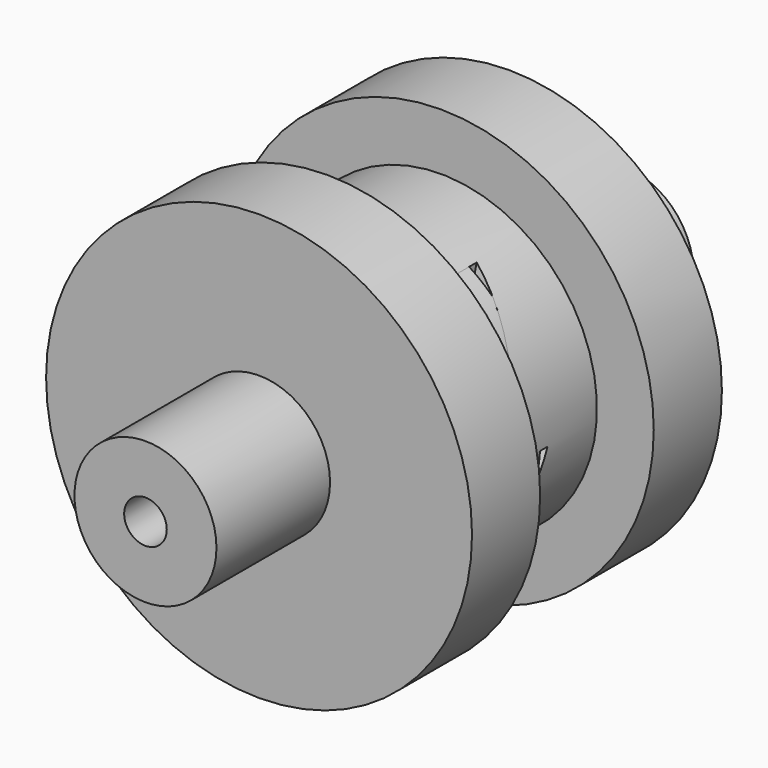
from build123d import *

# Parameters (mm, degrees)
F0_R      = 7.5
F1_DEPTH  = 3
F2_R      = 2.5
F3_DEPTH  = 5
F4_R      = 0.75
F5_DEPTH  = 8.001
F6_R      = 5.5
F6_R_2    = 4
F7_DEPTH  = 6
F10_DEPTH = 10
F11_COUNT = 6
F13_R     = 5.5
F13_R_2   = 4
F14_DEPTH = 5
F15_R     = 7.5
F16_DEPTH = 3
F17_R     = 2.5
F18_DEPTH = 5
F19_R     = 0.75
F20_DEPTH = 25
F22_R     = 7.5
F23_DEPTH = 2.5


with BuildPart() as f1:
    # F0 (on Front) → F1 (new body)
    with BuildSketch(Plane.XZ):
        Circle(F0_R)
    extrude(amount=F1_DEPTH)

    # F2 (on face) → F3 (join)
    with BuildSketch(Plane.XZ.offset(3)):
        Circle(F2_R)
    extrude(amount=F3_DEPTH)

    # F4 (on face) → F5 (cut, through all)
    with BuildSketch(Plane.XZ.offset(8)):
        Circle(F4_R)
    extrude(amount=-F5_DEPTH, mode=Mode.SUBTRACT)

    # F6 (on face) → F7 (join)
    with BuildSketch(Plane.XZ.offset(3)):
        Circle(F6_R)
        Circle(F6_R_2, mode=Mode.SUBTRACT)
    extrude(amount=-F7_DEPTH)


with BuildPart() as f10:
    # F9 (on offset) → F10 (new body)
    with BuildSketch(Plane.XY.offset(10)):
        Polygon((-3, 3), (3, 1), (3, 3), align=None)
    extrude(amount=-F10_DEPTH)


with BuildPart() as f11_1:
    # F11: instance of F10
    add(f10.part.rotate(Axis((0, 3, 0), (0, -1, 0)), 1 * 360 / F11_COUNT))


with BuildPart() as f11_2:
    # F11: instance of F10
    add(f10.part.rotate(Axis((0, 3, 0), (0, -1, 0)), 2 * 360 / F11_COUNT))


with BuildPart() as f11_3:
    # F11: instance of F10
    add(f10.part.rotate(Axis((0, 3, 0), (0, -1, 0)), 3 * 360 / F11_COUNT))


with BuildPart() as f11_4:
    # F11: instance of F10
    add(f10.part.rotate(Axis((0, 3, 0), (0, -1, 0)), 4 * 360 / F11_COUNT))


with BuildPart() as f11_5:
    # F11: instance of F10
    add(f10.part.rotate(Axis((0, 3, 0), (0, -1, 0)), 5 * 360 / F11_COUNT))


with BuildPart() as f1_1:
    add(f1.part)

    # F12: cut F11_3, F10, F11_4, F11_5, F11_1, F11_2
    add(f11_3.part, mode=Mode.SUBTRACT)
    add(f10.part, mode=Mode.SUBTRACT)
    add(f11_4.part, mode=Mode.SUBTRACT)
    add(f11_5.part, mode=Mode.SUBTRACT)
    add(f11_1.part, mode=Mode.SUBTRACT)
    add(f11_2.part, mode=Mode.SUBTRACT)


with BuildPart() as f14:
    # F13 (on face) → F14 (new body)
    with BuildSketch(Plane(origin=(0, 0, 0), x_dir=(-1, 0, 0), z_dir=(0, 1, 0))):
        Circle(F13_R)
        Circle(F13_R_2, mode=Mode.SUBTRACT)
    extrude(amount=F14_DEPTH)

    # F15 (on face) → F16 (join)
    with BuildSketch(Plane(origin=(0, 5, 0), x_dir=(-1, 0, 0), z_dir=(0, 1, 0))):
        Circle(F15_R)
    extrude(amount=F16_DEPTH)

    # F17 (on face) → F18 (join)
    with BuildSketch(Plane(origin=(0, 8, 0), x_dir=(-1, 0, 0), z_dir=(0, 1, 0))):
        Circle(F17_R)
    extrude(amount=F18_DEPTH)

    # F19 (on face) → F20 (cut)
    with BuildSketch(Plane(origin=(0, 13, 0), x_dir=(-1, 0, 0), z_dir=(0, 1, 0))):
        Circle(F19_R)
    extrude(amount=-F20_DEPTH, mode=Mode.SUBTRACT)

    # F21: cut F1
    add(f1_1.part, mode=Mode.SUBTRACT)


with BuildPart() as f1_2:
    add(f1_1.part)

    # F22 (on face) → F23 (cut)
    with BuildSketch(Plane.XZ.offset(-5)):
        Circle(F22_R)
    extrude(amount=F23_DEPTH, mode=Mode.SUBTRACT)


solid = Compound([f14.part, f1_2.part])
